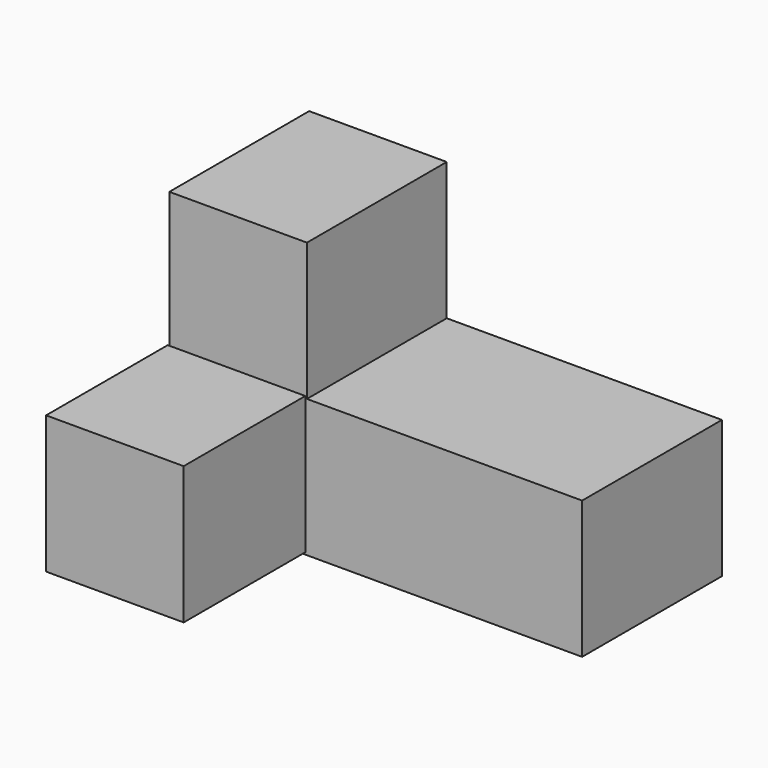
from build123d import *

# Parameters (mm, degrees)
F0_W     = 20
F0_H     = 20
F0_W_2   = 40
F1_DEPTH = 25.4
F2_W     = 20
F2_H     = 20
F3_DEPTH = 22.098


with BuildPart() as f1:
    # F0 (on Front) → F1 (new body)
    with BuildSketch(Plane.XZ):
        with Locations((-27.036533, 6.409439)):
            Rectangle(F0_W, F0_H)
        with Locations((-27.036533, -13.590561)):
            Rectangle(F0_W, F0_H)
        with Locations((2.963467, -13.590561)):
            Rectangle(F0_W_2, F0_H)
    extrude(amount=-F1_DEPTH)

    # F2 (on Front) → F3 (join)
    with BuildSketch(Plane.XZ):
        with Locations((-27.275146, -13.288374)):
            Rectangle(F2_W, F2_H)
    extrude(amount=F3_DEPTH)


solid = f1.part
